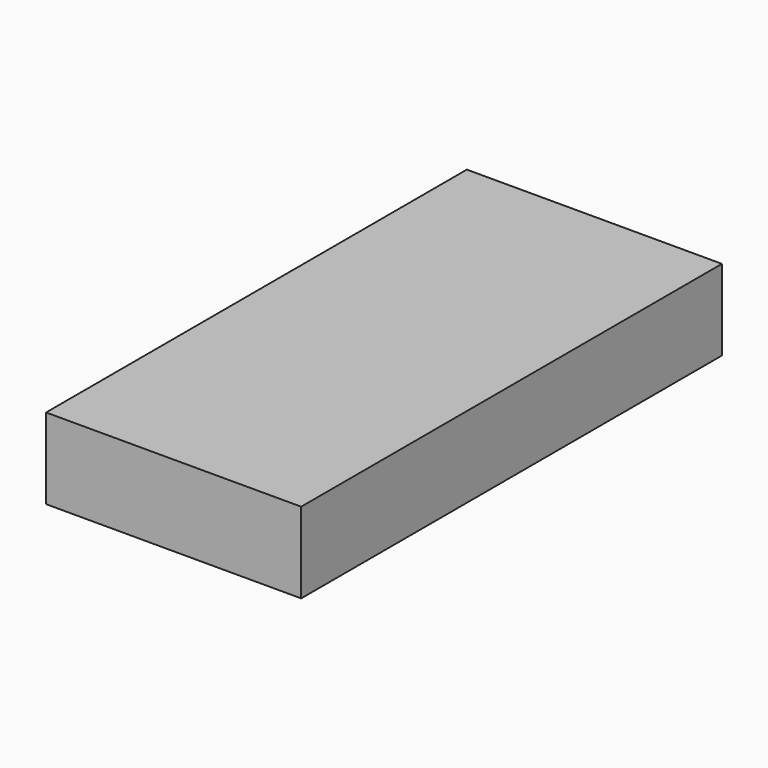
from build123d import *

# Parameters (mm, degrees)
F0_W      = 80.244028
F0_H      = 51.663946
F2_DEPTH  = 25.4
F1_R      = 12.351096
F3_DEPTH  = 25.4
F4_R      = 18.898504
F5_DEPTH  = 25.4
F2_FACE_W = 80.244028
F2_FACE_H = 25.4
F6_DEPTH  = 113.792


with BuildPart() as f2:
    # F0 (on Top) → F2 (new body)
    with BuildSketch(Plane.XY):
        Rectangle(F0_W, F0_H)
    extrude(amount=F2_DEPTH)

    # F1 (on Top) → F3 (join)
    with BuildSketch(Plane.XY):
        Circle(F1_R)
    extrude(amount=F3_DEPTH)

    # F4 (on Top) → F5 (join)
    with BuildSketch(Plane.XY):
        Circle(F4_R)
    extrude(amount=F5_DEPTH)

    # F2_face (on face) → F6 (join)
    with BuildSketch(Plane(origin=(0, 25.831973, 12.7), x_dir=(-1, 0, 0), z_dir=(0, 1, 0))):
        Rectangle(F2_FACE_W, F2_FACE_H)
    extrude(amount=F6_DEPTH)


solid = f2.part
